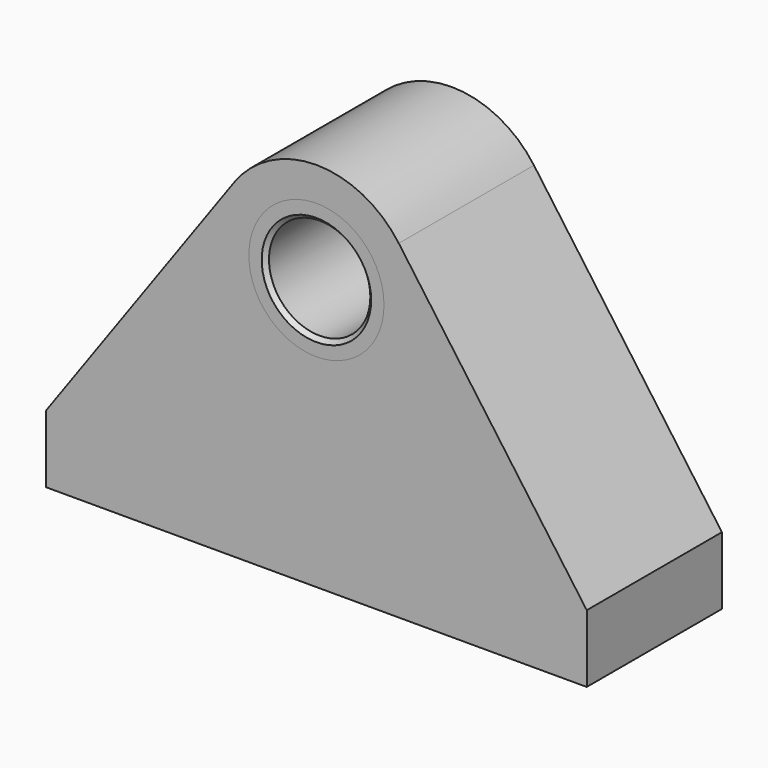
from build123d import *

# Parameters (mm, degrees)
F0_R     = 12.7
F1_DEPTH = 31.75
F0_R_2   = 9.525
F2_DEPTH = 31.75
F3_SIZE  = 0.762


with BuildPart() as f1:
    # F0 (on Front) → F1 (new body)
    with BuildSketch(Plane.XZ):
        with BuildLine():
            Line((-50.8, -22.225), (-50.8, -34.925))
            Line((-50.8, -34.925), (50.8, -34.925))
            Line((50.8, -34.925), (50.8, -22.225))
            Line((50.8, -22.225), (15.475525, 26.984033))
            ThreePointArc((15.475525, 26.984033), (0, 34.925), (-15.475525, 26.984033))
            Line((-15.475525, 26.984033), (-50.8, -22.225))
        make_face()
        with Locations((0, 15.875)):
            Circle(F0_R, mode=Mode.SUBTRACT)
    extrude(amount=F1_DEPTH)


with BuildPart() as f2:
    # F0 (on Front) → F2 (new body)
    with BuildSketch(Plane.XZ):
        with Locations((0, 15.875)):
            Circle(F0_R)
        with Locations((0, 15.875)):
            Circle(F0_R_2, mode=Mode.SUBTRACT)
    extrude(amount=F2_DEPTH)

    # F3
    f3_edges = [f2.edges().sort_by_distance(p)[0] for p in [
        (-9.525, -31.75, 15.875),
        (-9.525, 0, 15.875),
    ]]
    chamfer(f3_edges, length=F3_SIZE)


solid = Compound([f1.part, f2.part])
